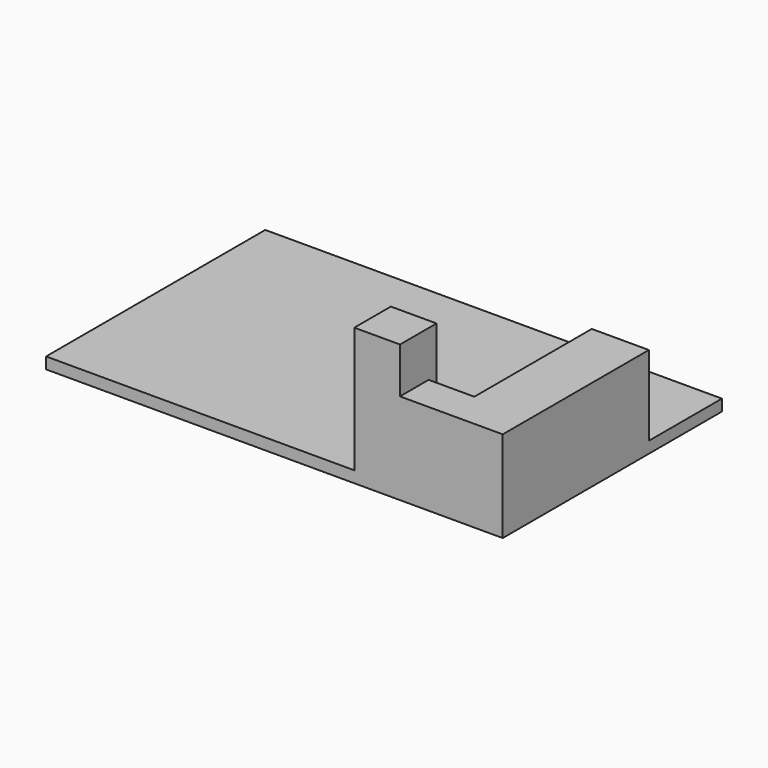
from build123d import *

# Parameters (mm, degrees)
F0_W     = 6096
F0_H     = 3657.6
F1_DEPTH = 152.4
F2_W     = 609.6
F2_H     = 478.562504
F3_DEPTH = 1066.8
F4_DEPTH = 1676.4


with BuildPart() as f1:
    # F0 (on Top) → F1 (new body)
    with BuildSketch(Plane.XY):
        with Locations((3003.246203, 1800.738938)):
            Rectangle(F0_W, F0_H)
    extrude(amount=-F1_DEPTH)

    # F2 (on face) → F3 (join)
    with BuildSketch(Plane.XY):
        Polygon((6051.246203, -28.061062), (6051.246203, 2410.338938), (5289.246203, 2410.338938), (5289.246203, 450.501442), (5289.246203, -28.061062), align=None)
        with Locations((4984.446203, 211.22019)):
            Rectangle(F2_W, F2_H)
    extrude(amount=F3_DEPTH)

    # F2 (on face) → F4 (join)
    with BuildSketch(Plane.XY):
        Polygon((4070.046203, 581.538938), (4070.046203, -28.061062), (4679.646203, -28.061062), (4679.646203, 450.501442), (4679.646203, 581.538938), align=None)
    extrude(amount=F4_DEPTH)


solid = f1.part
